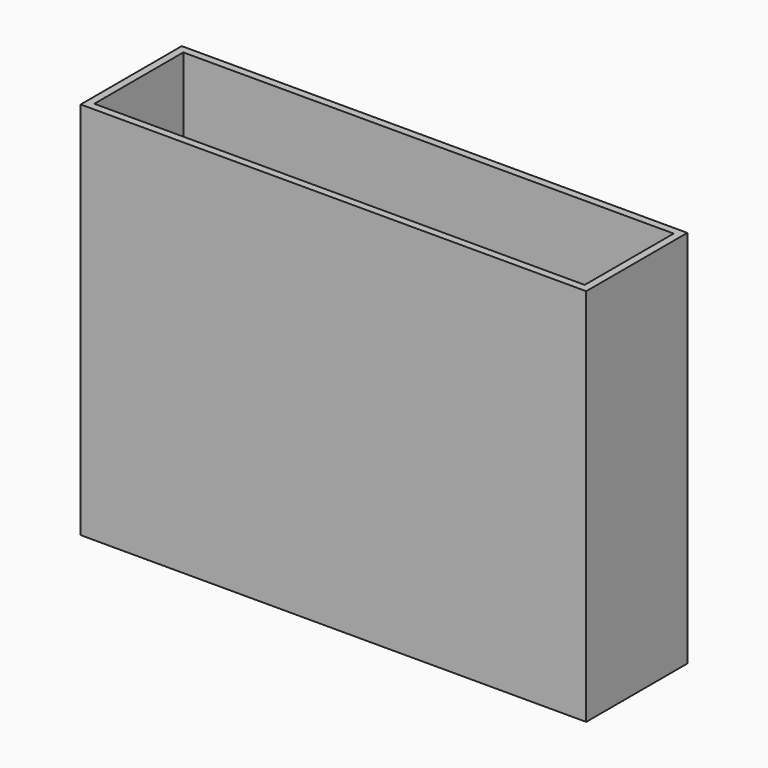
from build123d import *

# Parameters (mm, degrees)
F0_W     = 200
F0_H     = 50
F0_W_2   = 194
F0_H_2   = 44
F1_DEPTH = 150
F2_DEPTH = 5
F3_R     = 10
F4_DEPTH = 25.4
F5_DEPTH = 25.4


with BuildPart() as f1:
    # F0 (on Top) → F1 (new body)
    with BuildSketch(Plane.XY):
        with Locations((1.854228, -17.701853)):
            Rectangle(F0_W, F0_H)
        with Locations((1.854228, -17.701853)):
            Rectangle(F0_W_2, F0_H_2, mode=Mode.SUBTRACT)
    extrude(amount=F1_DEPTH)

    # F0 (on Top) → F2 (join)
    with BuildSketch(Plane.XY):
        with Locations((1.854228, -17.701853)):
            Rectangle(F0_W_2, F0_H_2)
    extrude(amount=F2_DEPTH)

    # F3 (on face) → F4 (cut)
    with BuildSketch(Plane(origin=(-98.145772, 0, 0), x_dir=(0, -1, 0), z_dir=(-1, 0, 0))):
        with Locations((17.701853, 118.406542)):
            Circle(F3_R)
    extrude(amount=-F4_DEPTH, mode=Mode.SUBTRACT)

    # F3 (on face) → F5 (cut)
    with BuildSketch(Plane(origin=(-98.145772, 0, 0), x_dir=(0, -1, 0), z_dir=(-1, 0, 0))):
        with Locations((17.701853, 15)):
            Circle(F3_R)
    extrude(amount=-F5_DEPTH, mode=Mode.SUBTRACT)


solid = f1.part
